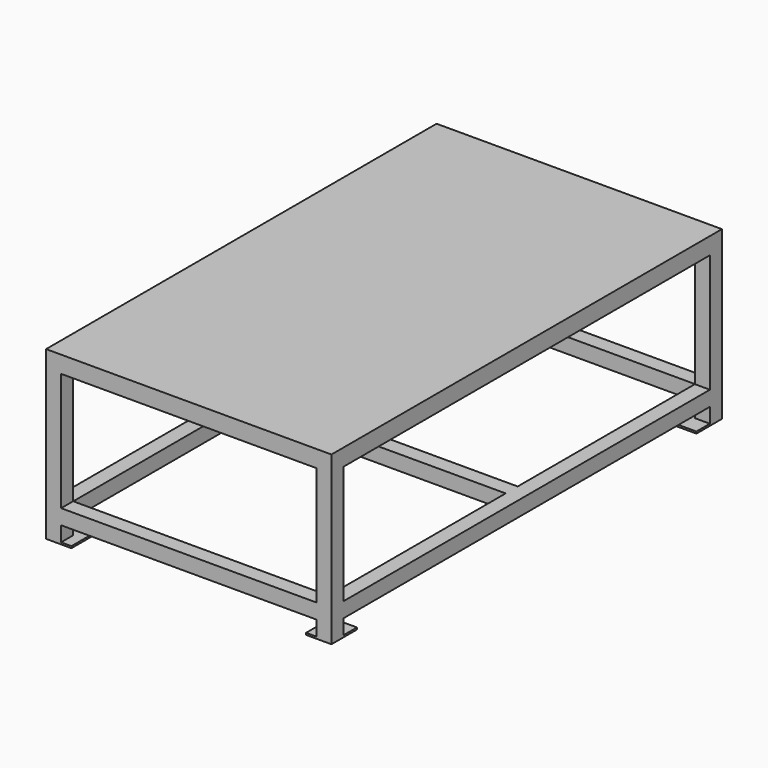
from build123d import *

# Parameters (mm, degrees)
F0_W      = 965.2
F0_H      = 552.45
F1_DEPTH  = 1651
F2_W      = 863.6
F2_H      = 50.8
F2_H_2    = 400.05
F3_DEPTH  = 1651
F4_W      = 1549.4
F4_H      = 50.434645
F4_H_2    = 400.415355
F5_DEPTH  = 965.2
F6_W      = 863.6
F6_H      = 749.3
F7_DEPTH  = 508
F8_W      = 85.725
F8_H      = 107.95
F9_DEPTH  = 6.35
F10_W     = 1651
F10_H     = 6.35
F11_DEPTH = 965.2


with BuildPart() as f1:
    # F0 (on Front) → F1 (new body)
    with BuildSketch(Plane.XZ):
        with Locations((482.6, 276.225)):
            Rectangle(F0_W, F0_H)
    extrude(amount=-F1_DEPTH)

    # F2 (on face) → F3 (cut, through all)
    with BuildSketch(Plane.XZ):
        with Locations((482.6, 25.4)):
            Rectangle(F2_W, F2_H)
        with Locations((482.6, 301.625)):
            Rectangle(F2_W, F2_H_2)
    extrude(amount=-F3_DEPTH, mode=Mode.SUBTRACT)

    # F4 (on face) → F5 (cut, through all)
    with BuildSketch(Plane.YZ.offset(965.2)):
        with Locations((825.5, 25.217322)):
            Rectangle(F4_W, F4_H)
        with Locations((825.5, 301.442322)):
            Rectangle(F4_W, F4_H_2)
    extrude(amount=-F5_DEPTH, mode=Mode.SUBTRACT)

    # F6 (on face) → F7 (cut)
    with BuildSketch(Plane.XY.offset(552.45)):
        with Locations((482.6, 425.45)):
            Rectangle(F6_W, F6_H)
        with Locations((482.6, 1225.55)):
            Rectangle(F6_W, F6_H)
    extrude(amount=-F7_DEPTH, mode=Mode.SUBTRACT)

    # F8 (on face) → F9 (join)
    with BuildSketch(Plane(origin=(0, 0, 0), x_dir=(1, 0, 0), z_dir=(0, 0, -1))):
        with Locations((922.3375, -1597.025)):
            Rectangle(F8_W, F8_H)
        with Locations((42.8625, -1597.025)):
            Rectangle(F8_W, F8_H)
        with Locations((922.3375, -53.975)):
            Rectangle(F8_W, F8_H)
        with Locations((42.8625, -53.975)):
            Rectangle(F8_W, F8_H)
    extrude(amount=F9_DEPTH)

    # F10 (on face) → F11 (join)
    with BuildSketch(Plane.YZ.offset(965.2)):
        with Locations((825.5, 555.625)):
            Rectangle(F10_W, F10_H)
    extrude(amount=-F11_DEPTH)


solid = f1.part
